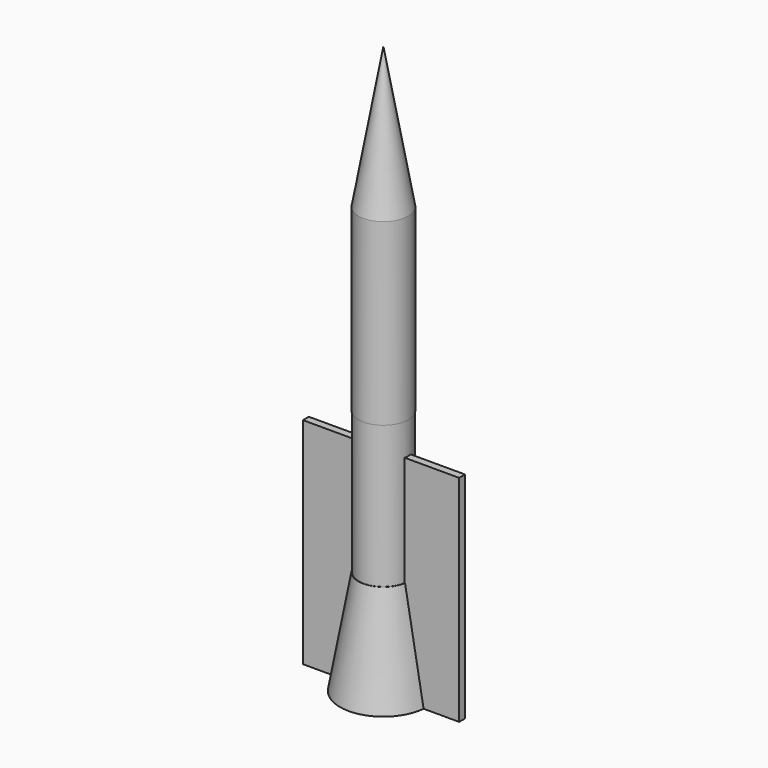
from build123d import *

# Parameters (mm, degrees)
F0_R      = 21.2186083974
F1_DEPTH  = 152.4
F4_R      = 21.2186083974
F5_DEPTH  = 2540
F5_TAPER  = 10
F6_R      = 20.954815433
F7_DEPTH  = 120.98847
F9_R      = 21.2186083974
F10_DEPTH = 88.9
F10_TAPER = -10
F11_W     = 132.7950581908
F11_H     = 6.2676130328
F12_DEPTH = 182.63136


with BuildPart() as f1:
    # F0 (on Top) → F1 (new body)
    with BuildSketch(Plane.XY):
        Circle(F0_R)
    extrude(amount=F1_DEPTH)

    # F4 (on face) → F5 (join)
    with BuildSketch(Plane.XY.offset(152.4)):
        Circle(F4_R)
    extrude(amount=F5_DEPTH, taper=F5_TAPER)

    # F6 (on face) → F7 (join)
    with BuildSketch(Plane(origin=(0, 0, 0), x_dir=(1, 0, 0), z_dir=(0, 0, -1))):
        Circle(F6_R)
    extrude(amount=F7_DEPTH)

    # F9 (on face) → F10 (join)
    with BuildSketch(Plane(origin=(0, 0, -120.98847), x_dir=(1, 0, 0), z_dir=(0, 0, -1))):
        Circle(F9_R)
    extrude(amount=F10_DEPTH, taper=F10_TAPER)

    # F11 (on face) → F12 (join)
    with BuildSketch(Plane(origin=(0, 0, -209.88847), x_dir=(1, 0, 0), z_dir=(0, 0, -1))):
        with Locations((0.5875863135, 0.0979314791)):
            Rectangle(F11_W, F11_H)
    extrude(amount=-F12_DEPTH)


solid = f1.part
